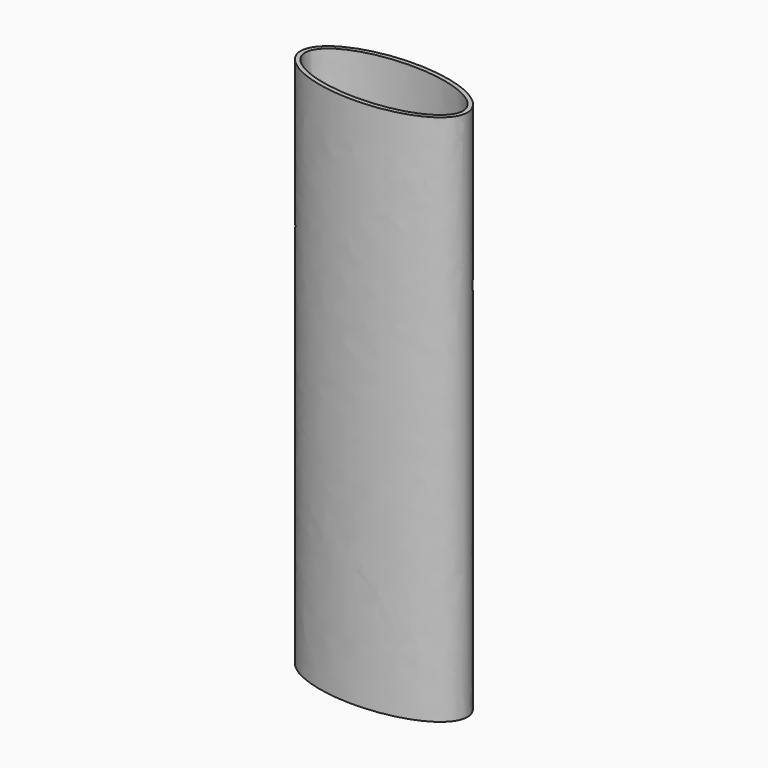
from build123d import *

# Parameters (mm, degrees)
F1_DEPTH = 152.4


with BuildPart() as f1:
    # F0 (on Top) → F1 (new body)
    with BuildSketch(Plane.XY):
        with BuildLine():
            add(Edge.make_bspline(
                [(23.876, 0), (23.876, 19.3574), (-11.938, 9.6787), (-47.752, 0), (-11.938, -9.6787), (23.876, -19.3574), (23.876, 0)],
                knots=[0, 0, 0, 2.094395, 2.094395, 4.18879, 4.18879, 6.283185, 6.283185, 6.283185], degree=2, weights=[1, 0.5, 1, 0.5, 1, 0.5, 1]))
        make_face()
        with BuildLine():
            add(Edge.make_bspline(
                [(22.606, 0), (22.606, 17.157695), (-11.303, 8.578848), (-45.212, 0), (-11.303, -8.578848), (22.606, -17.157695), (22.606, 0)],
                knots=[0, 0, 0, 2.094395, 2.094395, 4.18879, 4.18879, 6.283185, 6.283185, 6.283185], degree=2, weights=[1, 0.5, 1, 0.5, 1, 0.5, 1]))
        make_face(mode=Mode.SUBTRACT)
    extrude(amount=F1_DEPTH)


solid = f1.part
